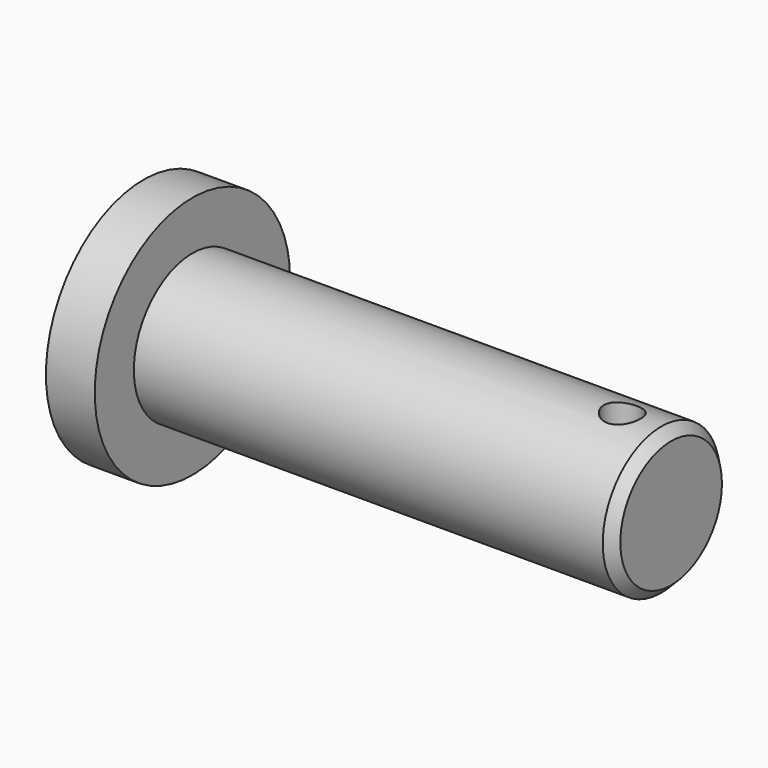
from build123d import *

# Parameters (mm, degrees)
F0_R     = 15.875
F0_R_2   = 9.525
F1_DEPTH = 6.35
F2_DEPTH = 68.58
F3_SIZE2 = 1.27
F3_SIZE  = 1.27
F5_R     = 2.3876
F6_DEPTH = 25.401


with BuildPart() as f1:
    # F0 (on Right) → F1 (new body)
    with BuildSketch(Plane.YZ):
        Circle(F0_R)
        Circle(F0_R_2, mode=Mode.SUBTRACT)
    extrude(amount=F1_DEPTH)

    # F0 (on Right) → F2 (join)
    with BuildSketch(Plane.YZ):
        Circle(F0_R_2)
    extrude(amount=F2_DEPTH)

    # F3
    f3_edges = [f1.edges().sort_by_distance(p)[0] for p in [
        (68.58, -9.525, 0),
    ]]
    chamfer(f3_edges, length=F3_SIZE, length2=F3_SIZE2)

    # F5 (on offset) → F6 (cut, through all)
    with BuildSketch(Plane.XY.offset(9.525)):
        with Locations((62.23, 0)):
            Circle(F5_R)
    extrude(amount=-F6_DEPTH, mode=Mode.SUBTRACT)


solid = f1.part
